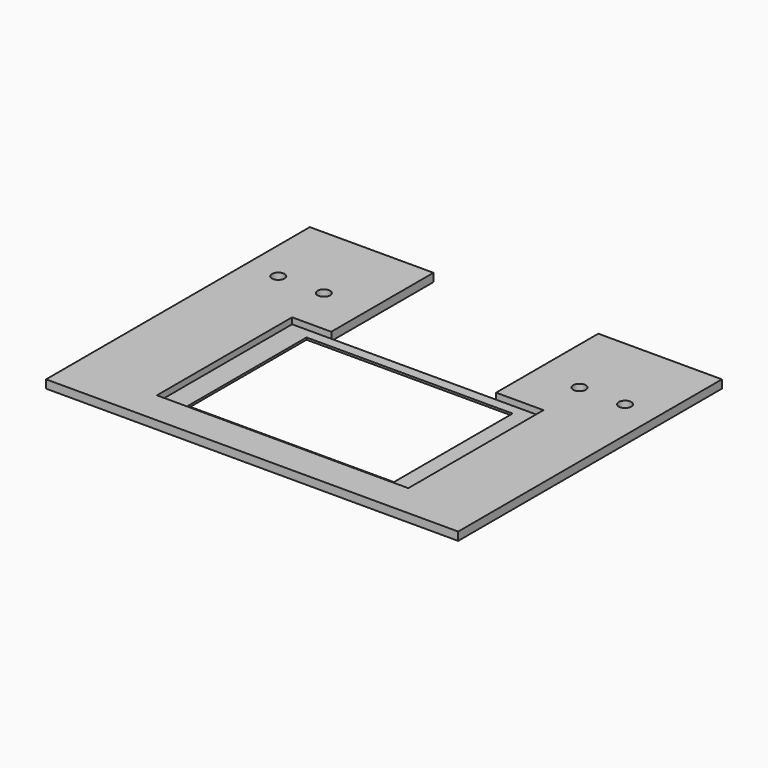
from build123d import *

# Parameters (mm, degrees)
F0_W     = 100
F0_H     = 80
F1_DEPTH = 2
F2_W     = 40
F2_H     = 31
F3_DEPTH = 2.001
F4_W     = 61
F4_H     = 41
F5_DEPTH = 1.5
F6_R     = 1.524
F6_R_2   = 1.524001
F7_DEPTH = 2.001
F8_W     = 50
F8_H     = 36
F9_DEPTH = 0.501


with BuildPart() as f1:
    # F0 (on Top) → F1 (new body)
    with BuildSketch(Plane.XY):
        with Locations((8.086769, -10.418962)):
            Rectangle(F0_W, F0_H)
    extrude(amount=F1_DEPTH)

    # F2 (on face) → F3 (cut, through all)
    with BuildSketch(Plane.XY.offset(2)):
        with Locations((8.086769, 14.081038)):
            Rectangle(F2_W, F2_H)
    extrude(amount=-F3_DEPTH, mode=Mode.SUBTRACT)

    # F4 (on face) → F5 (cut)
    with BuildSketch(Plane.XY.offset(2)):
        with Locations((9.086769, -21.918962)):
            Rectangle(F4_W, F4_H)
    extrude(amount=-F5_DEPTH, mode=Mode.SUBTRACT)

    # F6 (on face) → F7 (cut, through all)
    with BuildSketch(Plane.XY.offset(2)):
        with Locations((-33.985233, 10.10504)):
            Circle(F6_R)
        with Locations((-22.937232, 10.105039)):
            Circle(F6_R_2)
        with Locations((50.158769, 10.105038)):
            Circle(F6_R)
        with Locations((39.110769, 10.105038)):
            Circle(F6_R)
    extrude(amount=-F7_DEPTH, mode=Mode.SUBTRACT)

    # F8 (on face) → F9 (cut, through all)
    with BuildSketch(Plane.XY.offset(0.5)):
        with Locations((9.086769, -21.918962)):
            Rectangle(F8_W, F8_H)
    extrude(amount=-F9_DEPTH, mode=Mode.SUBTRACT)


solid = f1.part
